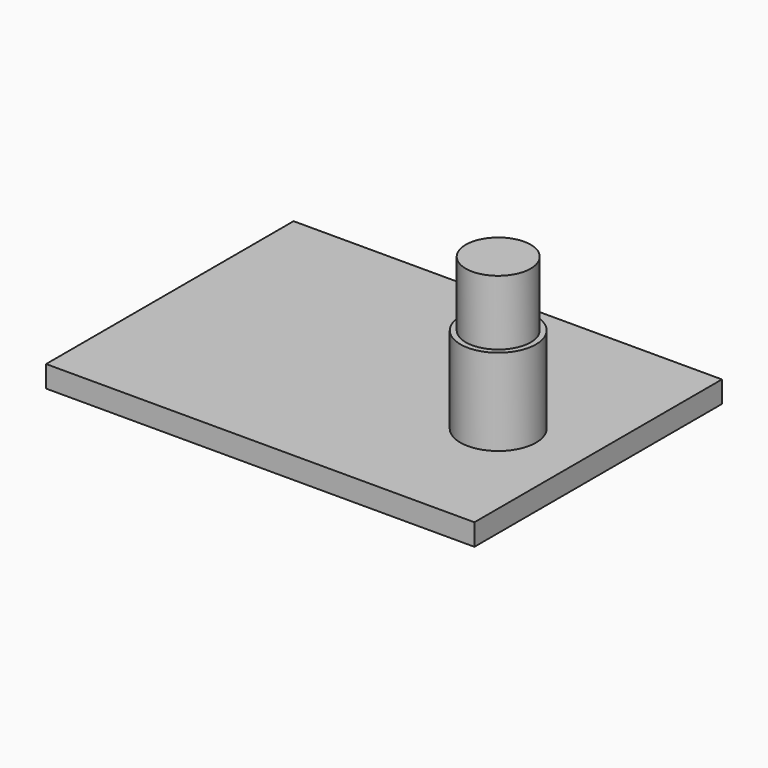
from build123d import *

# Parameters (mm, degrees)
F0_W     = 39.6
F0_H     = 28.6
F1_DEPTH = 2
F2_W     = 8
F2_H     = 4
F3_DEPTH = 20
F4_R     = 3.5
F5_DEPTH = 8
F6_R     = 3
F7_DEPTH = 6


with BuildPart() as f1:
    # F0 (on Top) → F1 (new body)
    with BuildSketch(Plane.XY):
        Rectangle(F0_W, F0_H)
    extrude(amount=F1_DEPTH)

    # F2 (on Right) → F3 (join)
    with BuildSketch(Plane.YZ):
        with Locations((-2.3, -2)):
            Rectangle(F2_W, F2_H)
    extrude(amount=-F3_DEPTH)

    # F4 (on face) → F5 (join)
    with BuildSketch(Plane.XY.offset(2)):
        with Locations((12, -1.8)):
            Circle(F4_R)
    extrude(amount=F5_DEPTH)

    # F6 (on face) → F7 (join)
    with BuildSketch(Plane.XY.offset(10)):
        with Locations((12, -1.8)):
            Circle(F6_R)
    extrude(amount=F7_DEPTH)


solid = f1.part
